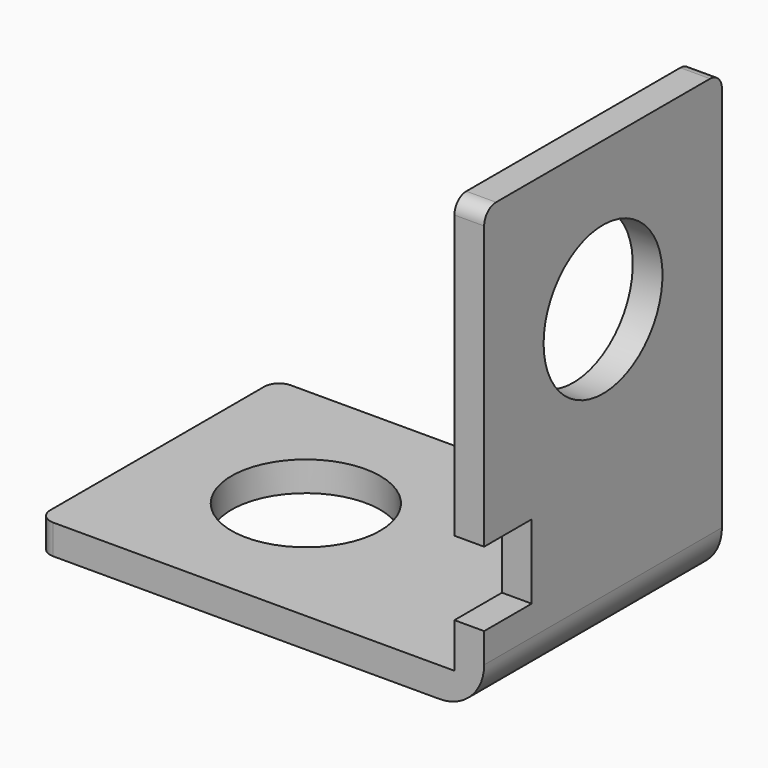
from build123d import *

# Parameters (mm, degrees)
F1_DEPTH = 20
F2_R     = 5
F3_DEPTH = 2.001
F4_R     = 5
F5_DEPTH = 2.001
F6_W     = 4
F6_H     = 5
F7_DEPTH = 30.001
F8_R     = 1


with BuildPart() as f1:
    # F0 (on Front) → F1 (new body)
    with BuildSketch(Plane.XZ):
        with BuildLine():
            Line((0, 2), (0, 0))
            Line((0, 0), (27, 0))
            ThreePointArc((27, 0), (29.12132, 0.87868), (30, 3))
            Line((30, 3), (30, 30))
            Line((30, 30), (28, 30))
            Line((28, 30), (28, 2))
            Line((28, 2), (0, 2))
        make_face()
    extrude(amount=F1_DEPTH)

    # F2 (on face) → F3 (cut, through all)
    with BuildSketch(Plane(origin=(28, 0, 0), x_dir=(0, -1, 0), z_dir=(-1, 0, 0))):
        with Locations((10, 20)):
            Circle(F2_R)
    extrude(amount=-F3_DEPTH, mode=Mode.SUBTRACT)

    # F4 (on face) → F5 (cut, through all)
    with BuildSketch(Plane.XY.offset(2)):
        with Locations((10, -10)):
            Circle(F4_R)
    extrude(amount=-F5_DEPTH, mode=Mode.SUBTRACT)

    # F6 (on face) → F7 (cut, through all)
    with BuildSketch(Plane.YZ.offset(30)):
        with Locations((-18, 7.5)):
            Rectangle(F6_W, F6_H)
    extrude(amount=-F7_DEPTH, mode=Mode.SUBTRACT)

    # F8
    f8_edges = [f1.edges().sort_by_distance(p)[0] for p in [
        (0, -20, 1),
        (0, 0, 1),
        (29, 0, 30),
        (29, -20, 30),
    ]]
    fillet(f8_edges, radius=F8_R)


solid = f1.part
